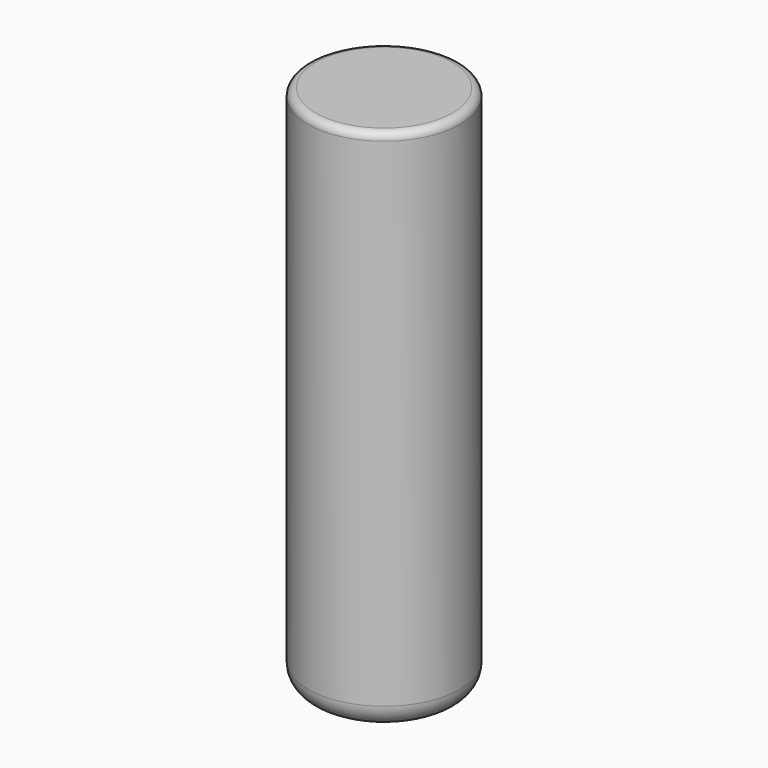
from build123d import *

# Parameters (mm, degrees)
SKETCH008_R  = 1
PAD004_DEPTH = 6.9375
FILLET_R     = 0.1
FILLET001_R  = 0.3


with BuildPart() as part:
    # Sketch008 → Pad004 (new body)
    with BuildSketch(Plane.XY):
        with Locations((-3.75, -3.5)):
            Circle(SKETCH008_R)
    extrude(amount=PAD004_DEPTH)

    # Fillet
    fillet_edges = [part.edges().sort_by_distance(p)[0] for p in [
        (-4.75, -3.5, 6.9375),
    ]]
    fillet(fillet_edges, radius=FILLET_R)

    # Fillet001
    fillet001_edges = [part.edges().sort_by_distance(p)[0] for p in [
        (-4.75, -3.5, 0),
    ]]
    fillet(fillet001_edges, radius=FILLET001_R)


solid = part.part
